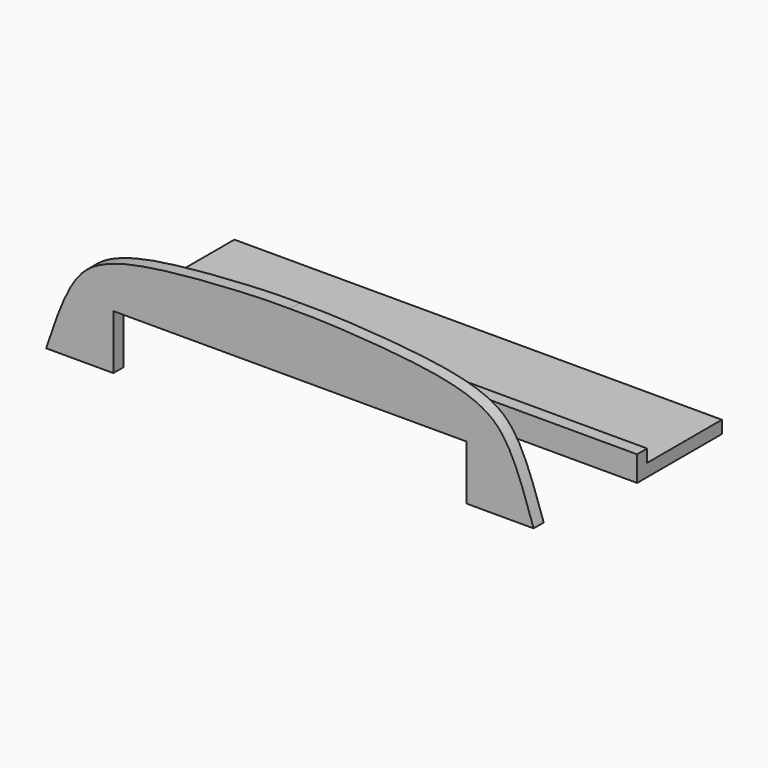
from build123d import *

# Parameters (mm, degrees)
F0_W     = 736.6
F0_H     = 141.0510414562
F1_DEPTH = 19.05
F2_W     = 736.6
F2_H     = 19.05
F3_DEPTH = 38.1
F4_R     = 12.7
F5_DEPTH = 25.4
F7_DEPTH = 19.05


with BuildPart() as f1:
    # F0 (on Top) → F1 (new body)
    with BuildSketch(Plane.XY):
        with Locations((0, 285.0406648131)):
            Rectangle(F0_W, F0_H)
    extrude(amount=F1_DEPTH)

    # F2 (on Top) → F3 (join)
    with BuildSketch(Plane.XY):
        with Locations((0, 204.9901440851)):
            Rectangle(F2_W, F2_H)
    extrude(amount=F3_DEPTH)

    # F4 (on Top) → F5 (cut)
    with BuildSketch(Plane.XY):
        with Locations((241.3, 227.2151440851)):
            Circle(F4_R)
        with Locations((-241.3, 227.2151440851)):
            Circle(F4_R)
    extrude(amount=F5_DEPTH, mode=Mode.SUBTRACT)


with BuildPart() as f7:
    # F6 (on Front) → F7 (new body)
    with BuildSketch(Plane.XZ):
        with BuildLine():
            Line((266.7, 19.05), (368.3, 19.05))
            add(Edge.make_bspline(
                [(368.3, 19.05), (339.1115538209, 107.947042629), (309.9413467859, 161.162243232), (172.7409144831, 185.5559864442), (44.1386524315, 192.1503037592), (0, 191.4294660091)],
                knots=[0, 0, 0, 0, 0.3395171917, 0.6414180752, 1, 1, 1, 1], degree=3))
            add(Edge.make_bspline(
                [(-368.3, 19.05), (-339.1115538209, 107.947042629), (-309.9413467859, 161.162243232), (-172.7409144831, 185.5559864442), (-44.1386524315, 192.1503037592), (0, 191.4294660091)],
                knots=[0, 0, 0, 0, 0.3395171917, 0.6414180752, 1, 1, 1, 1], degree=3))
            Line((-368.3, 19.05), (-266.7, 19.05))
            Line((-266.7, 19.05), (-266.7, 101.6))
            Line((-266.7, 101.6), (0, 101.6))
            Line((0, 101.6), (266.7, 101.6))
            Line((266.7, 101.6), (266.7, 19.05))
        make_face()
    extrude(amount=-F7_DEPTH)


solid = Compound([f1.part, f7.part])
